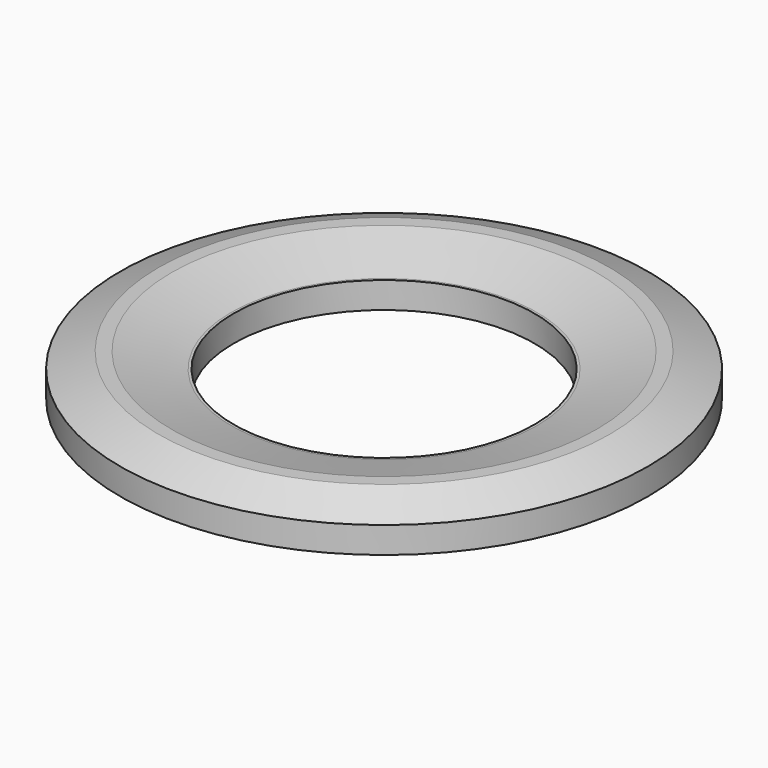
from build123d import *


with BuildPart() as part:
    # Sketch → Revolution (revolve)
    with BuildSketch(Plane.XZ):
        Polygon((58, 0), (80.5, 6), (85.5, 6), (100, 0), (100, -10), (57, -10), (57, 0), align=None)
    revolve(axis=Axis((0, 0, 0), (0, 0, 1)))


solid = part.part
